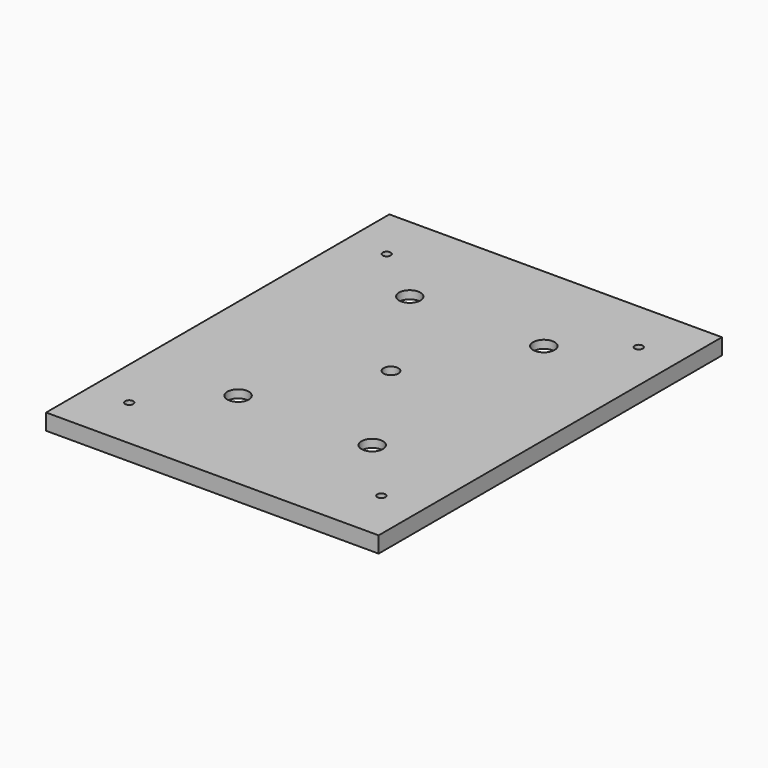
from build123d import *

# Parameters (mm, degrees)
F0_W     = 124
F0_H     = 160
F0_R     = 1.5
F0_W_2   = 70
F0_H_2   = 100
F0_R_2   = 4
F0_R_3   = 2.75
F1_DEPTH = 6
F2_DEPTH = 3


with BuildPart() as f1:
    # F0 (on Top) → F1 (new body)
    with BuildSketch(Plane.XY):
        with Locations((0, 0.25)):
            Rectangle(F0_W, F0_H)
        with Locations((-47, -59.75)):
            Circle(F0_R, mode=Mode.SUBTRACT)
        with Locations((47, -59.75)):
            Circle(F0_R, mode=Mode.SUBTRACT)
        with Locations((-47, 60.25)):
            Circle(F0_R, mode=Mode.SUBTRACT)
        with Locations((0, 3.5)):
            Rectangle(F0_W_2, F0_H_2, mode=Mode.SUBTRACT)
        with Locations((47, 60.25)):
            Circle(F0_R, mode=Mode.SUBTRACT)
        with Locations((0, 3.5)):
            Rectangle(F0_W_2, F0_H_2)
        with Locations((-25, -36.5)):
            Circle(F0_R_2, mode=Mode.SUBTRACT)
        with Locations((25, -36.5)):
            Circle(F0_R_2, mode=Mode.SUBTRACT)
        with Locations((-25, 43.5)):
            Circle(F0_R_2, mode=Mode.SUBTRACT)
        with Locations((0, 3.5)):
            Circle(F0_R_3, mode=Mode.SUBTRACT)
        with Locations((25, 43.5)):
            Circle(F0_R_2, mode=Mode.SUBTRACT)
    extrude(amount=F1_DEPTH)

    # F0 (on Top) → F2 (cut)
    with BuildSketch(Plane.XY):
        with Locations((0, 3.5)):
            Rectangle(F0_W_2, F0_H_2)
        with Locations((-25, -36.5)):
            Circle(F0_R_2, mode=Mode.SUBTRACT)
        with Locations((25, -36.5)):
            Circle(F0_R_2, mode=Mode.SUBTRACT)
        with Locations((-25, 43.5)):
            Circle(F0_R_2, mode=Mode.SUBTRACT)
        with Locations((0, 3.5)):
            Circle(F0_R_3, mode=Mode.SUBTRACT)
        with Locations((25, 43.5)):
            Circle(F0_R_2, mode=Mode.SUBTRACT)
    extrude(amount=F2_DEPTH, mode=Mode.SUBTRACT)


solid = f1.part
